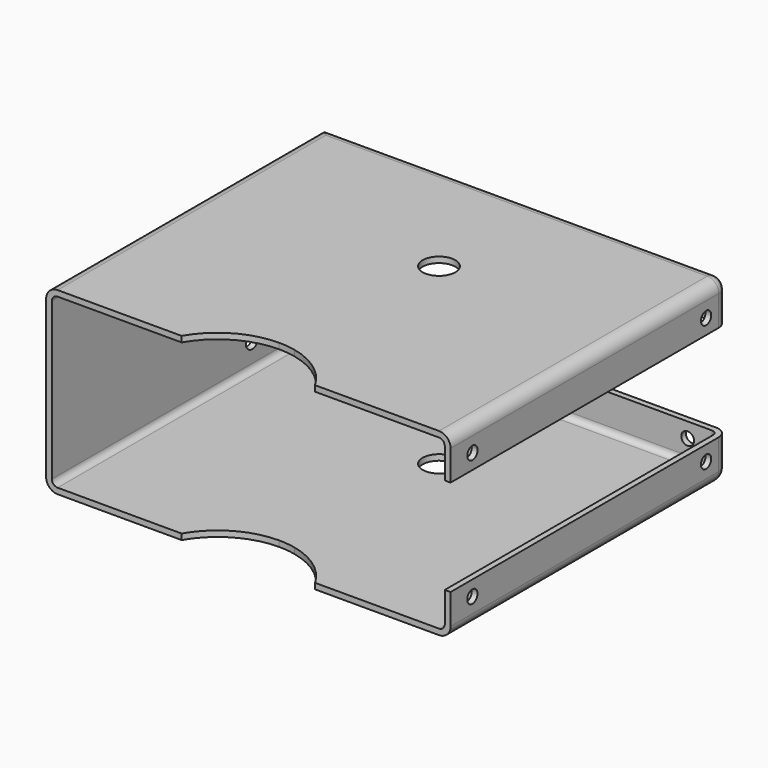
from build123d import *

# Parameters (mm, degrees)
F0_W      = 126
F0_H      = 56
F1_DEPTH  = 108
F2_T      = -1.8
F3_R      = 1.8
F4_R      = 2.5
F5_DEPTH  = 25
F6_W      = 124.2
F6_H      = 30
F7_DEPTH  = 120
F8_R      = 3.6
F10_DEPTH = 56
F11_R     = 2
F12_DEPTH = 25
F13_R     = 2
F14_DEPTH = 25


with BuildPart() as f1:
    # F0 (on Front) → F1 (new body)
    with BuildSketch(Plane.XZ):
        Rectangle(F0_W, F0_H)
    extrude(amount=F1_DEPTH)

    # F2
    f2_openings = [f1.faces().sort_by_distance(p)[0] for p in [
        (0, -108, 0),
    ]]
    offset(amount=F2_T, openings=f2_openings)

    # F3
    f3_edges = [f1.edges().sort_by_distance(p)[0] for p in [
        (-61.2, -1.8, 0),
        (-61.2, -54.9, -26.2),
        (0, -1.8, -26.2),
        (0, -1.8, 26.2),
        (-61.2, -54.9, 26.2),
        (61.2, -1.8, 0),
        (61.2, -54.9, 26.2),
        (61.2, -54.9, -26.2),
    ]]
    fillet(f3_edges, radius=F3_R)

    # F4 (on face) → F5 (cut)
    with BuildSketch(Plane(origin=(-63, 0, 0), x_dir=(0, -1, 0), z_dir=(-1, 0, 0))):
        with BuildLine():
            ThreePointArc((36, 0), (30, 6), (24, 0))
            Line((24, 0), (30, 0))
            Line((30, 0), (30, -6))
            ThreePointArc((30, -6), (34.2426406871, -4.2426406871), (36, 0))
        make_face()
        with BuildLine():
            ThreePointArc((32.5, -18), (31.767766953, -16.232233047), (30, -15.5))
            ThreePointArc((30, -15.5), (28.232233047, -19.767766953), (32.5, -18))
        make_face()
        with BuildLine():
            Line((30, 0), (24, 0))
            ThreePointArc((24, 0), (25.7573593129, -4.2426406871), (30, -6))
            Line((30, -6), (30, 0))
        make_face()
        with Locations((30, 18)):
            Circle(F4_R)
    extrude(amount=-F5_DEPTH, mode=Mode.SUBTRACT)

    # F6 (on face) → F7 (cut)
    with BuildSketch(Plane(origin=(0, 0, 0), x_dir=(-1, 0, 0), z_dir=(0, 1, 0))):
        with Locations((-0.9, 0)):
            Rectangle(F6_W, F6_H)
    extrude(amount=-F7_DEPTH, mode=Mode.SUBTRACT)

    # F8
    f8_edges = [f1.edges().sort_by_distance(p)[0] for p in [
        (0, 0, -28),
        (63, -54, -28),
        (63, 0, -21.5),
        (63, 0, 21.5),
        (63, -54, 28),
        (0, 0, 28),
        (-63, -54, 28),
        (-63, -54, -28),
    ]]
    fillet(f8_edges, radius=F8_R)

    # F9 (on face) → F10 (cut)
    with BuildSketch(Plane.XY.offset(28)):
        with BuildLine():
            Line((20.7846096908, -108), (5.18, -108))
            Line((5.18, -108), (0, -108))
            Line((0, -108), (0, -96))
            ThreePointArc((0, -96), (-16.9705627485, -136.9705627485), (24, -120))
            ThreePointArc((24, -120), (23.1822198309, -113.7883429175), (20.7846096908, -108))
        make_face()
        with BuildLine():
            Line((5.18, -96.5656747484), (5.18, -108))
            Line((5.18, -108), (20.7846096908, -108))
            ThreePointArc((20.7846096908, -108), (14.1854216571, -100.6409242883), (5.18, -96.5656747484))
        make_face()
        with BuildLine():
            Line((0, -108), (5.18, -108))
            Line((5.18, -108), (5.18, -96.5656747484))
            ThreePointArc((5.18, -96.5656747484), (2.6053976626, -96.1418378114), (0, -96))
            Line((0, -96), (0, -108))
        make_face()
        with BuildLine():
            ThreePointArc((10.28, -40.23), (1.5737554159, -36.6237554159), (5.18, -45.33))
            ThreePointArc((5.18, -45.33), (8.7862445841, -43.8362445841), (10.28, -40.23))
        make_face()
    extrude(amount=-F10_DEPTH, mode=Mode.SUBTRACT)

    # F11 (on face) → F12 (cut)
    with BuildSketch(Plane.YZ.offset(63)):
        with BuildLine():
            ThreePointArc((-97.5, 19.7), (-99.5, 21.7), (-101.5, 19.7))
            Line((-101.5, 19.7), (-99.5, 19.7))
            Line((-99.5, 19.7), (-97.5, 19.7))
        make_face()
        with BuildLine():
            ThreePointArc((-6.5, 19.7), (-8.5, 21.7), (-10.5, 19.7))
            ThreePointArc((-10.5, 19.7), (-8.5, 17.7), (-6.5, 19.7))
        make_face()
        with BuildLine():
            Line((-99.5, 19.7), (-101.5, 19.7))
            ThreePointArc((-101.5, 19.7), (-99.5, 17.7), (-97.5, 19.7))
            Line((-97.5, 19.7), (-99.5, 19.7))
        make_face()
        with Locations((-8.5, -19.7)):
            Circle(F11_R)
        with Locations((-99.5, -19.7)):
            Circle(F11_R)
    extrude(amount=-F12_DEPTH, mode=Mode.SUBTRACT)

    # F13 (on face) → F14 (cut)
    with BuildSketch(Plane(origin=(0, 0, 0), x_dir=(-1, 0, 0), z_dir=(0, 1, 0))):
        with BuildLine():
            ThreePointArc((-49.9, 19.7), (-51.9, 21.7), (-53.9, 19.7))
            Line((-53.9, 19.7), (-51.9, 19.7))
            Line((-51.9, 19.7), (-49.9, 19.7))
        make_face()
        with BuildLine():
            ThreePointArc((56.1, 19.7), (54.1, 21.7), (52.1, 19.7))
            ThreePointArc((52.1, 19.7), (54.1, 17.7), (56.1, 19.7))
        make_face()
        with BuildLine():
            Line((-51.9, 19.7), (-53.9, 19.7))
            ThreePointArc((-53.9, 19.7), (-51.9, 17.7), (-49.9, 19.7))
            Line((-49.9, 19.7), (-51.9, 19.7))
        make_face()
        with Locations((54.1, -19.7)):
            Circle(F13_R)
        with Locations((-51.9, -19.7)):
            Circle(F13_R)
    extrude(amount=-F14_DEPTH, mode=Mode.SUBTRACT)


solid = f1.part
